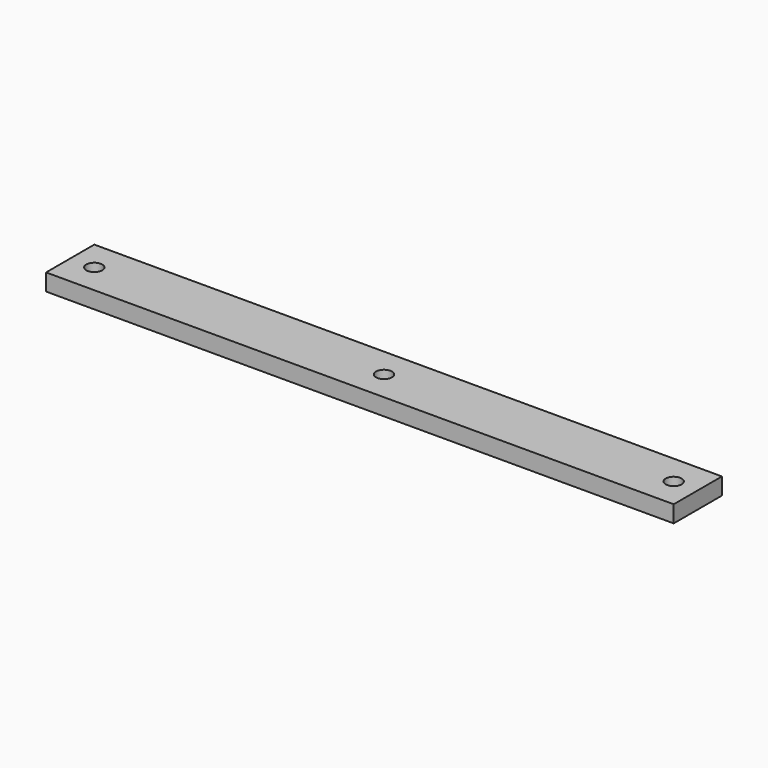
from build123d import *

# Parameters (mm, degrees)
F0_W     = 260.35
F0_H     = 25
F1_DEPTH = 7
F2_R     = 3.302
F3_DEPTH = 7


with BuildPart() as f1:
    # F0 (on Top) → F1 (new body)
    with BuildSketch(Plane.XY):
        Rectangle(F0_W, F0_H)
    extrude(amount=F1_DEPTH)

    # F2 (on face) → F3 (cut, through all)
    with BuildSketch(Plane.XY.offset(7)):
        with Locations((-120.175, 0)):
            Circle(F2_R)
        Circle(F2_R)
        with Locations((120.175, 0)):
            Circle(F2_R)
    extrude(amount=-F3_DEPTH, mode=Mode.SUBTRACT)


solid = f1.part
